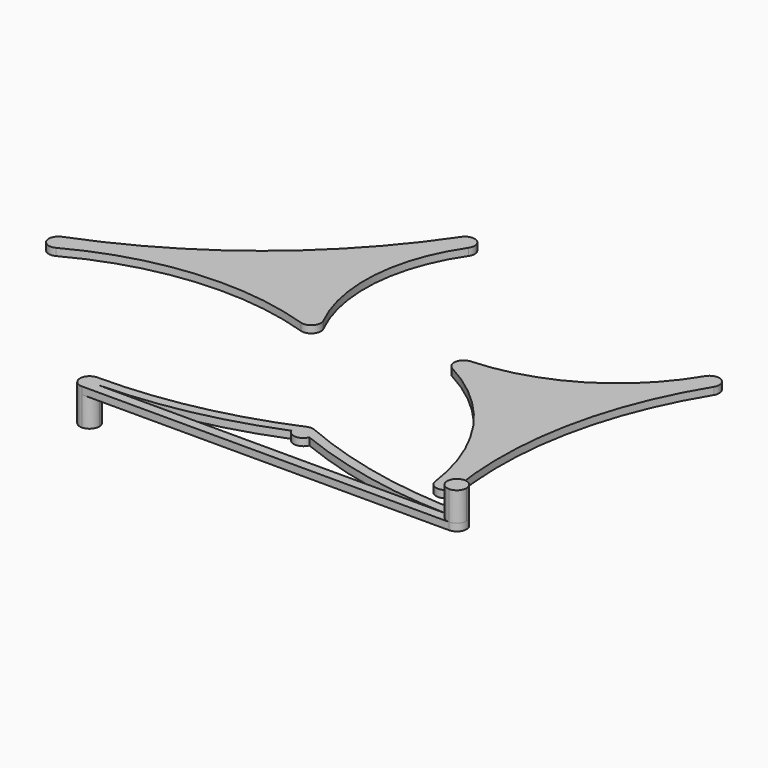
from build123d import *

# Parameters (mm, degrees)
F1_DEPTH = 38.1
F3_DEPTH = 152.4
F5_DEPTH = 152.4


with BuildPart() as f1:
    # F0 (on Top) → F1 (new body)
    with BuildSketch(Plane.XY):
        with BuildLine():
            Line((578.58612592, -538.1904875344), (1543.78612592, -538.1904875344))
            ThreePointArc((1543.78612592, -538.1904875344), (1594.58612592, -487.3904875344), (1543.78612592, -436.5904875344))
            ThreePointArc((1543.78612592, -436.5904875344), (1061.3387384185, -387.5869907468), (598.597715192, -242.5781295429))
            ThreePointArc((598.597715192, -242.5781295429), (578.58612592, -238.4704875344), (558.5745366481, -242.5781295429))
            ThreePointArc((558.5745366481, -242.5781295429), (95.8335134215, -387.5869907468), (-386.61387408, -436.5904875344))
            ThreePointArc((-386.61387408, -436.5904875344), (-437.41387408, -487.3904875344), (-386.61387408, -538.1904875344))
            Line((-386.61387408, -538.1904875344), (578.58612592, -538.1904875344))
        make_face()
        with BuildLine():
            Line((578.58612592, -487.3904875344), (-335.81387408, -487.3904875344))
            ThreePointArc((-335.81387408, -487.3904875344), (-335.814556508, -487.127173612), (-335.8166037738, -486.8638667641))
            ThreePointArc((-335.8166037738, -486.8638667641), (106.0479202577, -437.3494855897), (531.688825749, -308.7969628094))
            ThreePointArc((531.688825749, -308.7969628094), (578.58612592, -340.0704875344), (625.4834260911, -308.7969628094))
            ThreePointArc((625.4834260911, -308.7969628094), (1051.1243315824, -437.3494855897), (1492.9888556138, -486.8638667641))
            ThreePointArc((1492.9888556138, -486.8638667641), (1492.986808348, -487.127173612), (1492.98612592, -487.3904875344))
            Line((1492.98612592, -487.3904875344), (578.58612592, -487.3904875344))
        make_face(mode=Mode.SUBTRACT)
    extrude(amount=F1_DEPTH)

    # F2 (on face) → F3 (join)
    with BuildSketch(Plane.XY.offset(38.1)):
        with BuildLine():
            ThreePointArc((1543.78612592, -538.1904875344), (1579.7071504043, -523.3115120187), (1594.58612592, -487.3904875344))
            ThreePointArc((1594.58612592, -487.3904875344), (1579.7071504043, -451.4694630501), (1543.78612592, -436.5904875344))
            ThreePointArc((1543.78612592, -436.5904875344), (1508.0517750453, -451.2837545395), (1492.9888556138, -486.8638667641))
            ThreePointArc((1492.9888556138, -486.8638667641), (1492.986808348, -487.127173612), (1492.98612592, -487.3904875344))
            ThreePointArc((1492.98612592, -487.3904875344), (1507.8651014357, -523.3115120187), (1543.78612592, -538.1904875344))
        make_face()
    extrude(amount=F3_DEPTH)

    # F4 (on face) → F5 (join)
    with BuildSketch(Plane(origin=(0, 0, 0), x_dir=(1, 0, 0), z_dir=(0, 0, -1))):
        with BuildLine():
            ThreePointArc((-335.8166037738, 486.8638667641), (-335.814556508, 487.127173612), (-335.81387408, 487.3904875344))
            ThreePointArc((-335.81387408, 487.3904875344), (-350.6928495957, 523.3115120187), (-386.61387408, 538.1904875344))
            ThreePointArc((-386.61387408, 538.1904875344), (-437.41387408, 487.3904875344), (-386.61387408, 436.5904875344))
            ThreePointArc((-386.61387408, 436.5904875344), (-350.8795232053, 451.2837545395), (-335.8166037738, 486.8638667641))
        make_face()
    extrude(amount=F5_DEPTH)


with BuildPart() as f1b:
    # F0 (on Top) → F1, piece 2 (new body)
    with BuildSketch(Plane.XY):
        with BuildLine():
            ThreePointArc((700.4525085114, 536.7956395791), (1087.008090924, 191.4761389399), (1273.8510641923, -292.0116883693))
            ThreePointArc((1273.8510641923, -292.0116883693), (1331.6111867641, -335.5672910451), (1374.3563176992, -277.2048368019))
            ThreePointArc((1374.3563176992, -277.2048368019), (1386.3592913175, 424.7201841677), (1641.3725986006, 1078.7928250474))
            ThreePointArc((1641.3725986006, 1078.7928250474), (1624.3975116782, 1148.7329758867), (1554.5186495719, 1131.5073291303))
            ThreePointArc((1554.5186495719, 1131.5073291303), (1200.4431225892, 778.0764081668), (721.8738905251, 632.2875717536))
            ThreePointArc((721.8738905251, 632.2875717536), (674.9112645749, 592.6738795608), (700.4525085114, 536.7956395791))
        make_face()
    extrude(amount=F1_DEPTH)


with BuildPart() as f1c:
    # F0 (on Top) → F1, piece 3 (new body)
    with BuildSketch(Plane.XY):
        with BuildLine():
            ThreePointArc((-1238.1441603016, 357.4409524068), (-649.2415869151, 534.0376295096), (-38.234163915, 465.754715513))
            ThreePointArc((-38.234163915, 465.754715513), (15.9121736635, 480.9775886127), (22.8336565164, 536.7956395791))
            ThreePointArc((22.8336565164, 536.7956395791), (-66.6192914122, 984.3155710712), (83.317223093, 1415.3549667114))
            ThreePointArc((83.317223093, 1415.3549667114), (69.995736254, 1486.0671465957), (-0.673772255, 1472.5211153438))
            ThreePointArc((-0.673772255, 1472.5211153438), (-562.8052062946, 863.6112282067), (-1280.6442961627, 449.5218165501))
            ThreePointArc((-1280.6442961627, 449.5218165501), (-1308.2951236796, 380.9110630596), (-1238.1441603016, 357.4409524068))
        make_face()
    extrude(amount=F1_DEPTH)


solid = Compound([f1.part, f1b.part, f1c.part])
